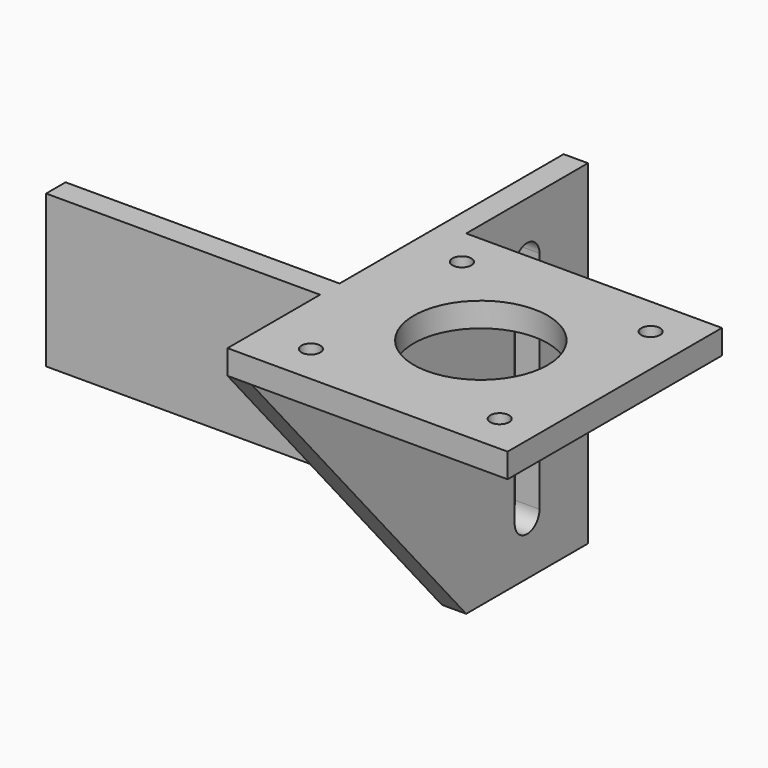
from build123d import *

# Parameters (mm, degrees)
PAD012_DEPTH    = 4
SKETCH030_W     = 44
SKETCH030_H     = 4
PAD013_DEPTH    = 46
SKETCH031_R     = 1.55
SKETCH031_R_2   = 11
POCKET012_DEPTH = 4.001
SKETCH032_W     = 4
SKETCH032_H     = 25
PAD003_DEPTH    = 45


with BuildPart() as part:
    # Sketch029 → Pad012 (new body)
    with BuildSketch(Plane.YZ):
        Polygon((0, 4), (25, 4), (25, -51), (0, -51), (-44, 0), (0, 0), align=None)
        with BuildLine():
            ThreePointArc((15.05, -5), (12.5, -2.45), (9.95, -5))
            Line((9.95, -5), (9.95, -42))
            ThreePointArc((9.95, -42), (12.5, -44.55), (15.05, -42))
            Line((15.05, -5), (15.05, -42))
        make_face(mode=Mode.SUBTRACT)
    extrude(amount=PAD012_DEPTH)

    # Sketch030 → Pad013 (join)
    with BuildSketch(Plane.YZ):
        with Locations((-22, 2)):
            Rectangle(SKETCH030_W, SKETCH030_H)
    extrude(amount=PAD013_DEPTH)

    # Sketch031 → Pocket012 (cut, through all)
    with BuildSketch(Plane.XY):
        with Locations((8.5, -6.5)):
            Circle(SKETCH031_R)
        with Locations((39.5, -6.5)):
            Circle(SKETCH031_R)
        with Locations((39.5, -37.5)):
            Circle(SKETCH031_R)
        with Locations((8.5, -37.5)):
            Circle(SKETCH031_R)
        with Locations((24, -22)):
            Circle(SKETCH031_R_2)
    extrude(amount=POCKET012_DEPTH, mode=Mode.SUBTRACT)

    # Sketch032 → Pad003 (join)
    with BuildSketch(Plane(origin=(0, 0, 0), x_dir=(0, -1, 0), z_dir=(-1, 0, 0))):
        with Locations((23, -8.5)):
            Rectangle(SKETCH032_W, SKETCH032_H)
    extrude(amount=PAD003_DEPTH)


solid = part.part
